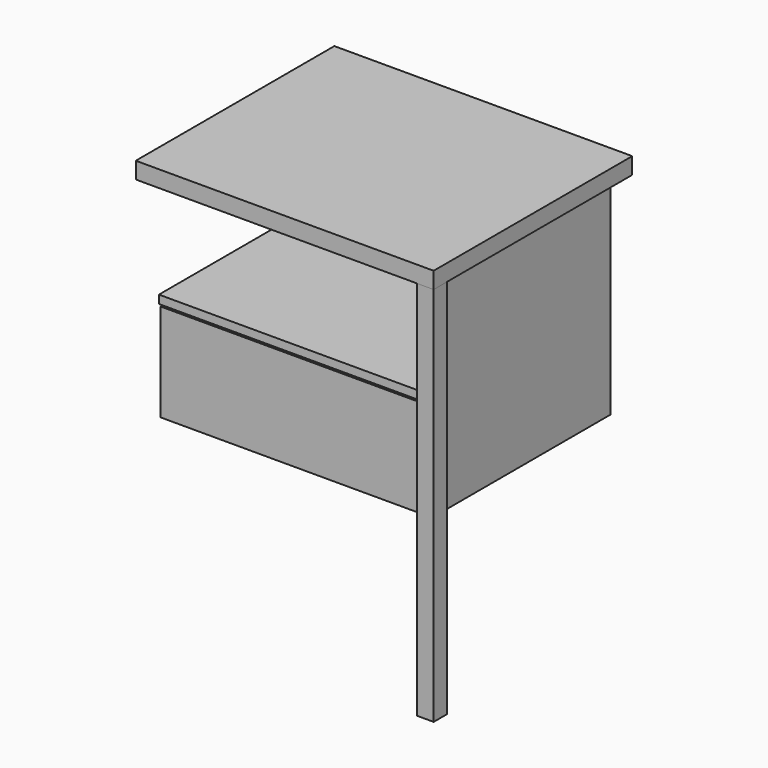
from build123d import *

# Parameters (mm, degrees)
F0_W      = 457.2
F0_H      = 381
F1_DEPTH  = 25.4
F2_W      = 25.4
F2_H      = 25.4
F3_DEPTH  = 584.2
F5_W      = 406.4
F5_H      = 330.2
F6_DEPTH  = 12.7
F8_W      = 330.2
F8_H      = 317.5
F9_DEPTH  = 12.7
F11_W     = 406.4
F11_H     = 317.5
F12_DEPTH = 12.7
F14_W     = 401.32
F14_H     = 149.86
F15_DEPTH = 12.7
F17_W     = 406.4
F17_H     = 342.9
F18_DEPTH = 12.7


with BuildPart() as f1:
    # F0 (on Top) → F1 (new body)
    with BuildSketch(Plane.XY):
        Rectangle(F0_W, F0_H)
    extrude(amount=F1_DEPTH)


with BuildPart() as f3:
    # F2 (on face) → F3 (new body)
    with BuildSketch(Plane(origin=(0, 0, 0), x_dir=(1, 0, 0), z_dir=(0, 0, -1))):
        with Locations((215.9, 177.8)):
            Rectangle(F2_W, F2_H)
    extrude(amount=F3_DEPTH)


with BuildPart() as f6:
    # F5 (on offset) → F6 (new body)
    with BuildSketch(Plane.XY.offset(-304.8)):
        Rectangle(F5_W, F5_H)
    extrude(amount=-F6_DEPTH)


with BuildPart() as f9:
    # F8 (on offset) → F9 (new body)
    with BuildSketch(Plane.YZ.offset(203.2)):
        with Locations((0, -158.75)):
            Rectangle(F8_W, F8_H)
    extrude(amount=F9_DEPTH)


with BuildPart() as f12:
    # F11 (on offset) → F12 (new body)
    with BuildSketch(Plane.XZ.offset(-165.1)):
        with Locations((0, -158.75)):
            Rectangle(F11_W, F11_H)
    extrude(amount=-F12_DEPTH)


with BuildPart() as f15:
    # F14 (on offset) → F15 (new body)
    with BuildSketch(Plane.XZ.offset(165.1)):
        with Locations((0, -242.57)):
            Rectangle(F14_W, F14_H)
    extrude(amount=F15_DEPTH)


with BuildPart() as f18:
    # F17 (on offset) → F18 (new body)
    with BuildSketch(Plane.XY.offset(-152.4)):
        with Locations((0, -6.35)):
            Rectangle(F17_W, F17_H)
    extrude(amount=-F18_DEPTH)


solid = Compound([f1.part, f3.part, f6.part, f9.part, f12.part, f15.part, f18.part])
